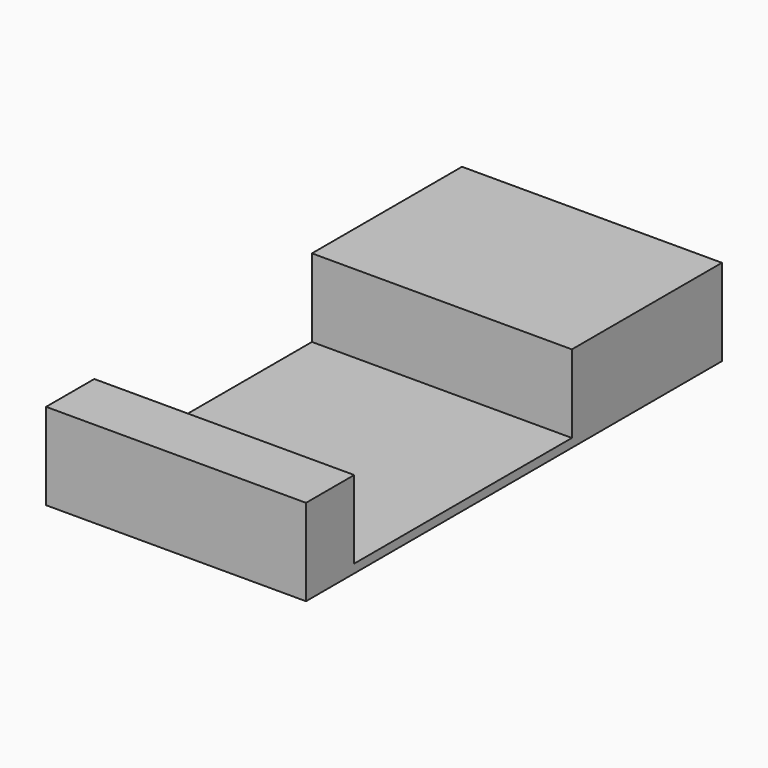
from build123d import *

# Parameters (mm, degrees)
F0_W     = 6
F0_H     = 1
F1_DEPTH = 1.5
F2_W     = 3
F2_H     = 3.140206
F3_DEPTH = 0.9


with BuildPart() as f1:
    # F0 (on Right) → F1 (new body, symmetric)
    with BuildSketch(Plane.YZ):
        with Locations((3, 0.5)):
            Rectangle(F0_W, F0_H)
    extrude(amount=F1_DEPTH, both=True)

    # F2 (on face) → F3 (cut)
    with BuildSketch(Plane.XY.offset(1)):
        with Locations((0, 2.265498)):
            Rectangle(F2_W, F2_H)
    extrude(amount=-F3_DEPTH, mode=Mode.SUBTRACT)


solid = f1.part
